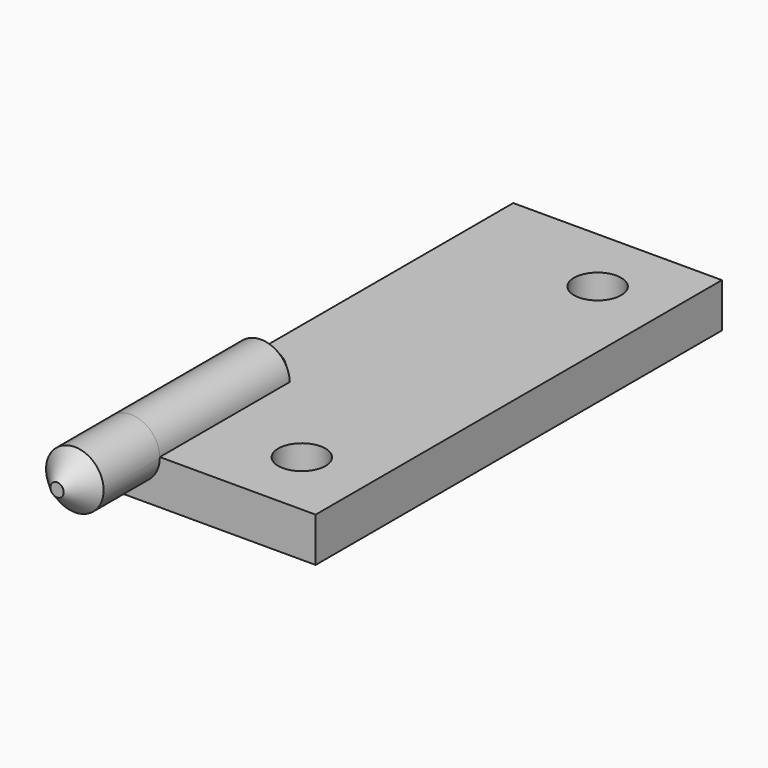
from build123d import *

# Parameters (mm, degrees)
F0_W          = 14.351
F0_H          = 34.925
F0_R          = 1.6256
F1_DEPTH      = 1.016
F1_DEPTH_BACK = 2.032
F2_R          = 1.9812
F3_DEPTH      = 6.35
F3_DEPTH_BACK = 12.7
F4_SIZE       = 1.524


with BuildPart() as f1:
    # F0 (on Top) → F1 (new body, two sides)
    with BuildSketch(Plane.XY) as f1_sk:
        Rectangle(F0_W, F0_H)
        with Locations((2.4257, -12.7127)):
            Circle(F0_R, mode=Mode.SUBTRACT)
        with Locations((2.4257, 12.7127)):
            Circle(F0_R, mode=Mode.SUBTRACT)
    extrude(amount=-F1_DEPTH)
    extrude(f1_sk.sketch, amount=F1_DEPTH_BACK)

    # F2 (on face) → F3 (join, two sides)
    with BuildSketch(Plane.XZ.offset(17.4625)) as f3_sk:
        with Locations((-5.5245, 1.9812)):
            Circle(F2_R)
    extrude(amount=F3_DEPTH)
    extrude(f3_sk.sketch, amount=-F3_DEPTH_BACK)

    # F4
    f4_edges = [f1.edges().sort_by_distance(p)[0] for p in [
        (-7.5057, -23.8125, 1.9812),
        (-6.120697, -4.7625, 3.870566),
    ]]
    chamfer(f4_edges, length=F4_SIZE)


solid = f1.part
